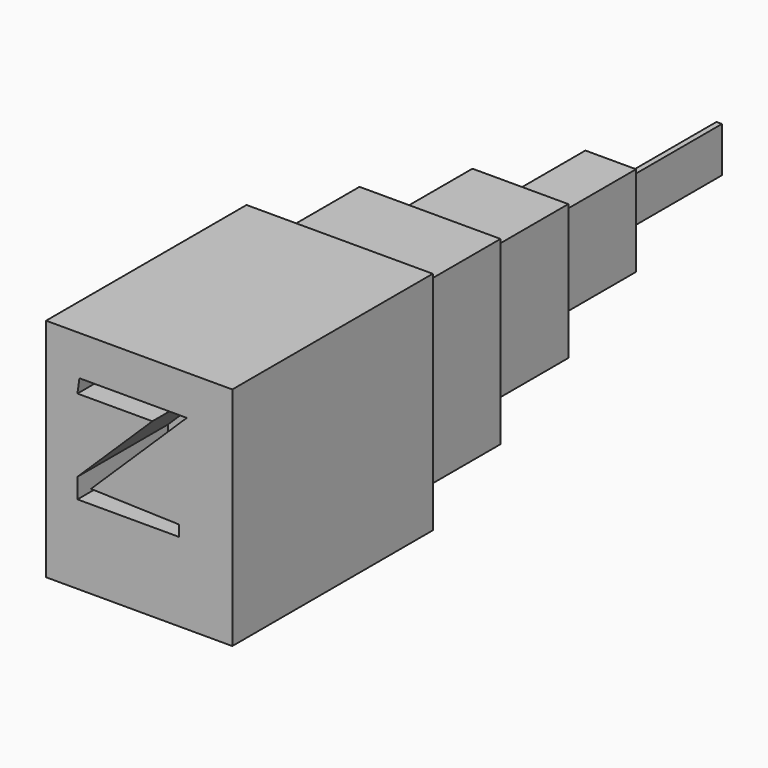
from build123d import *

# Parameters (mm, degrees)
F0_W      = 41.8750662357
F0_H      = 36.0216127859
F1_DEPTH  = 25.4
F2_W      = 41.8750662357
F2_H      = 36.0216127859
F3_DEPTH  = 25.4
F4_SIZE   = 5.08
F5_W      = 41.8750662357
F5_H      = 50.8
F6_DEPTH  = 25.4
F7_DEPTH  = 25.4
F8_SIZE   = 5.08
F9_DEPTH  = 25.4
F10_SIZE  = 5.08
F11_DEPTH = 25.4
F12_SIZE  = 5.08
F13_DEPTH = 25.4


with BuildPart() as f1:
    # F0 (on Top) → F1 (new body)
    with BuildSketch(Plane.XY):
        with Locations((3.1896857545, -2.3053699248)):
            Rectangle(F0_W, F0_H)
    extrude(amount=F1_DEPTH)

    # F2 (on face) → F3 (join)
    with BuildSketch(Plane.XY.offset(25.4)):
        with Locations((3.1896857545, -2.3053699248)):
            Rectangle(F2_W, F2_H)
    extrude(amount=F3_DEPTH)

    # F4
    f4_edges = [f1.edges().sort_by_distance(p)[0] for p in [
        (24.127219, 15.705436, 25.4),
        (3.189686, 15.705436, 50.8),
        (-17.747847, 15.705436, 25.4),
        (3.189686, 15.705436, 0),
    ]]
    chamfer(f4_edges, length=F4_SIZE)

    # F5 (on face) → F6 (join)
    with BuildSketch(Plane.XZ.offset(20.3161763178)):
        with Locations((3.1896857545, 25.4)):
            Rectangle(F5_W, F5_H)
        Polygon((-10.6956241652, 38.6634500507), (-10.2477921173, 41.8440811336), (13.8919791207, 41.8440811336), (-7.6569230296, 20.7865554839), (12.0871476829, 20.1766453683), (12.0871476829, 17.7131071687), (-10.6915878132, 17.7131071687), (-10.6915878132, 22.1973434091), (6.1587547541, 38.6634500507), align=None, mode=Mode.SUBTRACT)
    extrude(amount=F6_DEPTH)

    # F7 (add): a face of the model
    f7_faces = [f1.faces().sort_by_distance(p)[0] for p in [
        (3.1896857545, 15.7054364681, 25.4),
    ]]
    extrude(f7_faces, amount=F7_DEPTH)

    # F8
    f8_edges = [f1.edges().sort_by_distance(p)[0] for p in [
        (19.047219, 41.105436, 25.4),
        (3.189686, 41.105436, 45.72),
        (3.189686, 41.105436, 5.08),
        (-12.667847, 41.105436, 25.4),
    ]]
    chamfer(f8_edges, length=F8_SIZE)

    # F9 (add): a face of the model
    f9_faces = [f1.faces().sort_by_distance(p)[0] for p in [
        (3.1896857545, 41.1054364681, 25.4),
    ]]
    extrude(f9_faces, amount=F9_DEPTH)

    # F10
    f10_edges = [f1.edges().sort_by_distance(p)[0] for p in [
        (13.967219, 66.505436, 25.4),
        (3.189686, 66.505436, 40.64),
        (3.189686, 66.505436, 10.16),
        (-7.587847, 66.505436, 25.4),
    ]]
    chamfer(f10_edges, length=F10_SIZE)

    # F11 (add): a face of the model
    f11_faces = [f1.faces().sort_by_distance(p)[0] for p in [
        (3.1896857545, 66.5054364681, 25.4),
    ]]
    extrude(f11_faces, amount=F11_DEPTH)

    # F12
    f12_edges = [f1.edges().sort_by_distance(p)[0] for p in [
        (8.887219, 91.905436, 25.4),
        (3.189686, 91.905436, 35.56),
        (3.189686, 91.905436, 15.24),
        (-2.507847, 91.905436, 25.4),
    ]]
    chamfer(f12_edges, length=F12_SIZE)

    # F13 (add): a face of the model
    f13_faces = [f1.faces().sort_by_distance(p)[0] for p in [
        (3.1896857545, 91.9054364681, 25.4),
    ]]
    extrude(f13_faces, amount=F13_DEPTH)


solid = f1.part
